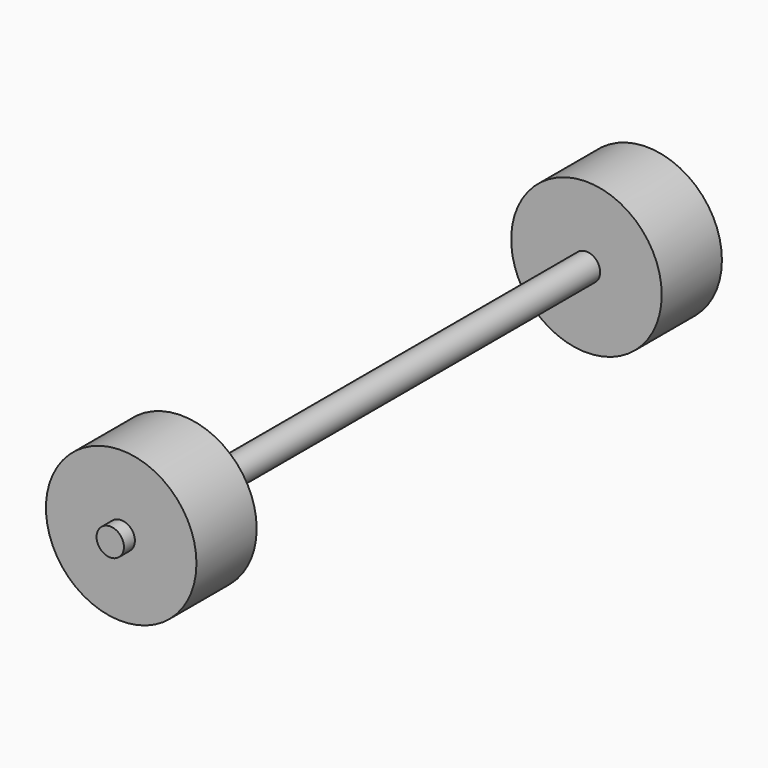
from build123d import *

# Parameters (mm, degrees)
CYLINDER002001001002_R             = 11
CYLINDER002001001002_DEPTH         = 11
CYLINDER002001001002_ROLL_ANGLE    = 90
CYLINDER002001001002001_R          = 11
CYLINDER002001001002001_DEPTH      = 11
CYLINDER002001001002001_ROLL_ANGLE = 90
CYLINDER002001002001_R             = 2
CYLINDER002001002001_DEPTH         = 100
CYLINDER002001002001_ROLL_ANGLE    = -90


with BuildPart() as wheel006:
    # Cylinder002001001002 → Cylinder002001001002 (new body)
    with BuildSketch(Plane.XY):
        Circle(CYLINDER002001001002_R)
    extrude(amount=CYLINDER002001001002_DEPTH)


with BuildPart() as wheel006_1:
    # Cylinder002001001002 roll: moved
    add(wheel006.part.rotate(Axis((0, 0, 0), (1, 0, 0)), CYLINDER002001001002_ROLL_ANGLE))


with BuildPart() as wheel006_2:
    # Cylinder002001001002 placement: moved
    add(wheel006_1.part.moved(Location((20, 78, 14))))


with BuildPart() as wheel007:
    # Cylinder002001001002001 → Cylinder002001001002001 (new body)
    with BuildSketch(Plane.XY):
        Circle(CYLINDER002001001002001_R)
    extrude(amount=CYLINDER002001001002001_DEPTH)


with BuildPart() as wheel007_1:
    # Cylinder002001001002001 roll: moved
    add(wheel007.part.rotate(Axis((0, 0, 0), (1, 0, 0)), CYLINDER002001001002001_ROLL_ANGLE))


with BuildPart() as wheel007_2:
    # Cylinder002001001002001 placement: moved
    add(wheel007_1.part.moved(Location((20, -7, 14))))


with BuildPart() as obj1:
    # Cylinder002001002001 → Cylinder002001002001 (new body)
    with BuildSketch(Plane.XY):
        Circle(CYLINDER002001002001_R)
    extrude(amount=CYLINDER002001002001_DEPTH)


with BuildPart() as obj1_1:
    # Cylinder002001002001 roll: moved
    add(obj1.part.rotate(Axis((0, 0, 0), (1, 0, 0)), CYLINDER002001002001_ROLL_ANGLE))


with BuildPart() as obj1_2:
    # Cylinder002001002001 placement: moved
    add(obj1_1.part.moved(Location((20, -20, 14))))

    # Fusion002001002002002: union Wheel006, Wheel007
    add(wheel006_2.part)
    add(wheel007_2.part)


with BuildPart() as obj1_3:
    # Fusion002001002002002 placement: moved
    add(obj1_2.part.moved(Location((28.5, 0, -24))))


solid = obj1_3.part
